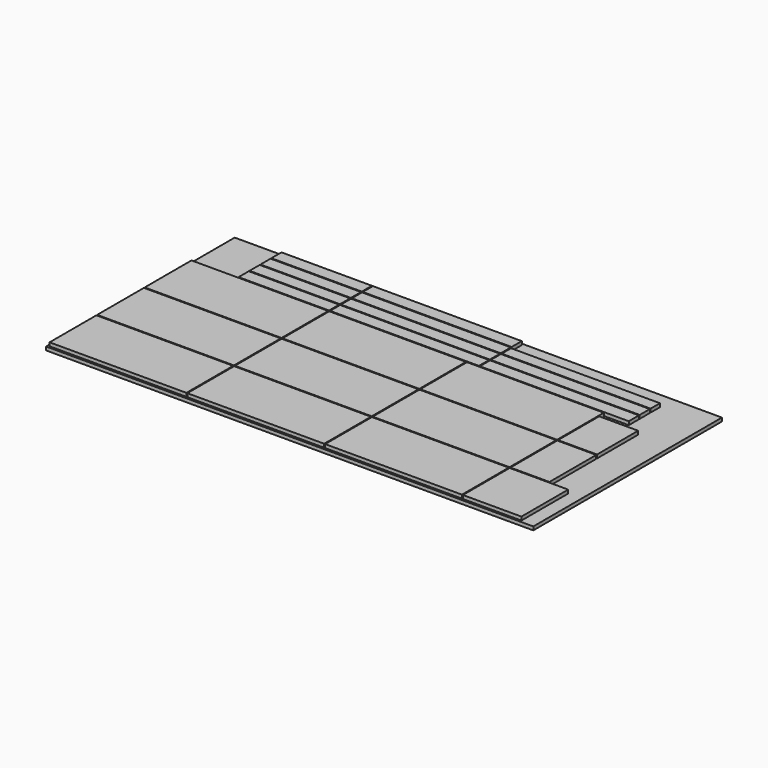
from build123d import *

# Parameters (mm, degrees)
F0_W     = 2500
F0_H     = 1210
F1_DEPTH = 18
F2_W     = 702
F2_H     = 300
F2_W_2   = 464
F2_H_2   = 65
F2_W_3   = 764
F2_W_4   = 300
F2_W_5   = 200
F2_H_3   = 264
F2_H_4   = 60
F3_DEPTH = 18


with BuildPart() as f1:
    # F0 (on Top) → F1 (new body)
    with BuildSketch(Plane.XY):
        with Locations((1250, 605)):
            Rectangle(F0_W, F0_H)
    extrude(amount=F1_DEPTH)


with BuildPart() as f3:
    # F2 (on face) → F3 (new body)
    with BuildSketch(Plane.XY.offset(18)):
        with Locations((361, 160)):
            Rectangle(F2_W, F2_H)
        with Locations((361, 465)):
            Rectangle(F2_W, F2_H)
        with Locations((361, 770)):
            Rectangle(F2_W, F2_H)
        with Locations((1068, 160)):
            Rectangle(F2_W, F2_H)
        with Locations((1068, 465)):
            Rectangle(F2_W, F2_H)
        with Locations((1068, 770)):
            Rectangle(F2_W, F2_H)
        with Locations((480, 957.5)):
            Rectangle(F2_W_2, F2_H_2)
        with Locations((480, 1027.5)):
            Rectangle(F2_W_2, F2_H_2)
        with Locations((480, 1097.5)):
            Rectangle(F2_W_2, F2_H_2)
        with Locations((480, 1167.5)):
            Rectangle(F2_W_2, F2_H_2)
        with Locations((1099, 1167.5)):
            Rectangle(F2_W_3, F2_H_2)
        with Locations((1099, 1097.5)):
            Rectangle(F2_W_3, F2_H_2)
        with Locations((1099, 1027.5)):
            Rectangle(F2_W_3, F2_H_2)
        with Locations((1099, 957.5)):
            Rectangle(F2_W_3, F2_H_2)
        with Locations((1775, 160)):
            Rectangle(F2_W, F2_H)
        with Locations((1775, 465)):
            Rectangle(F2_W, F2_H)
        with Locations((2281, 160)):
            Rectangle(F2_W_4, F2_H)
        with Locations((2231, 465)):
            Rectangle(F2_W_5, F2_H)
        with Locations((2231, 752)):
            Rectangle(F2_W_5, F2_H_3)
        with Locations((1775, 770)):
            Rectangle(F2_W, F2_H)
        with Locations((1868, 957.5)):
            Rectangle(F2_W_3, F2_H_2)
        with Locations((1868, 1027.5)):
            Rectangle(F2_W_3, F2_H_2)
        with Locations((1868, 1095)):
            Rectangle(F2_W_3, F2_H_4)
    extrude(amount=F3_DEPTH)


solid = Compound([f1.part, f3.part])
